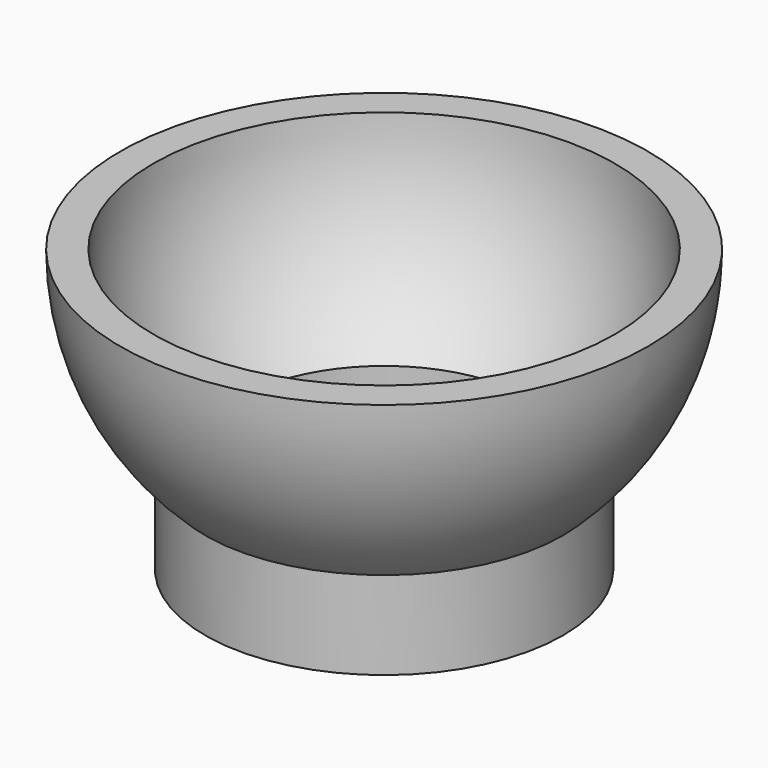
from build123d import *

# Parameters (mm, degrees)
F2_T = -1


with BuildPart() as f1:
    # F0 (on Front) → F1 (revolve)
    with BuildSketch(Plane.XZ):
        with BuildLine():
            ThreePointArc((5.4245473345, -5.8799903245), (7.3279048396, -3.2096433855), (8, 0))
            Line((8, 0), (0, 0))
            Line((0, 0), (0, -8))
            ThreePointArc((0, -8), (2.9120506009, -7.451171807), (5.4245473345, -5.8799903245))
        make_face()
        with BuildLine():
            Line((5.4245473345, -8.5472833758), (5.4245473345, -5.8799903245))
            ThreePointArc((5.4245473345, -5.8799903245), (2.9120506009, -7.451171807), (0, -8))
            Line((0, -8), (0, -8.5472833758))
            Line((0, -8.5472833758), (5.4245473345, -8.5472833758))
        make_face()
    revolve(axis=Axis((0, 0, -4.2736416879), (0, 0, -1)))

    # F2
    f2_openings = [f1.faces().sort_by_distance(p)[0] for p in [
        (0, 0, 0),
        (0, 0, -8.547283),
    ]]
    offset(amount=F2_T, openings=f2_openings, kind=Kind.INTERSECTION)


solid = f1.part
